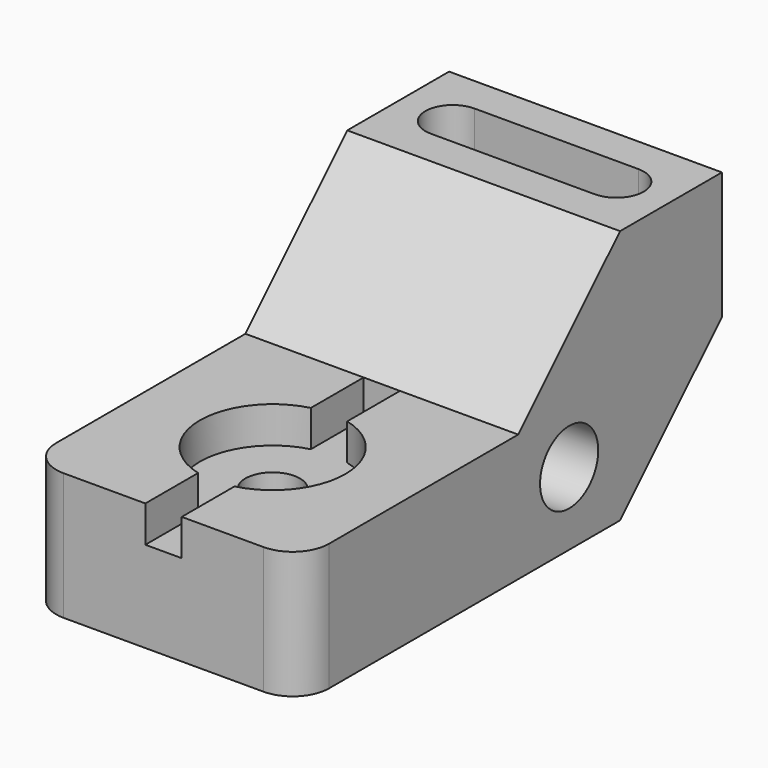
from build123d import *

# Parameters (mm, degrees)
F0_W      = 76.2
F0_H      = 71.12
F1_DEPTH  = 147.32
F3_DEPTH  = 76.201
F4_R      = 10.16
F6_DEPTH  = 27.94
F7_R      = 10.16
F8_DEPTH  = 76.201
F10_DEPTH = 10.16
F11_R     = 7.62
F12_DEPTH = 25.401


with BuildPart() as f1:
    # F0 (on Front) → F1 (new body)
    with BuildSketch(Plane.XZ):
        with Locations((38.1, 35.56)):
            Rectangle(F0_W, F0_H)
    extrude(amount=F1_DEPTH)

    # F2 (on face) → F3 (cut, through all)
    with BuildSketch(Plane.YZ.offset(76.2)):
        Polygon((0, 0), (0, 35.56), (-35.56, 0), align=None)
        Polygon((-71.12, 35.56), (-35.56, 71.12), (-147.32, 71.12), (-147.32, 35.56), align=None)
    extrude(amount=-F3_DEPTH, mode=Mode.SUBTRACT)

    # F4
    f4_edges = [f1.edges().sort_by_distance(p)[0] for p in [
        (76.2, -147.32, 17.78),
        (0, -147.32, 17.78),
    ]]
    fillet(f4_edges, radius=F4_R)

    # F5 (on face) → F6 (cut)
    with BuildSketch(Plane.XY.offset(71.12)):
        with BuildLine():
            Line((60.96, -10.16), (15.24, -10.16))
            ThreePointArc((15.24, -10.16), (7.62, -17.78), (15.24, -25.4))
            Line((15.24, -25.4), (60.96, -25.4))
            ThreePointArc((60.96, -25.4), (68.58, -17.78), (60.96, -10.16))
        make_face()
    extrude(amount=-F6_DEPTH, mode=Mode.SUBTRACT)

    # F7 (on face) → F8 (cut, through all)
    with BuildSketch(Plane.YZ.offset(76.2)):
        with Locations((-53.34, 20.32)):
            Circle(F7_R)
    extrude(amount=-F8_DEPTH, mode=Mode.SUBTRACT)

    # F9 (on face) → F10 (cut)
    with BuildSketch(Plane.XY.offset(35.56)):
        with BuildLine():
            Line((33.02, -71.12), (33.02, -89.5452446013))
            ThreePointArc((33.02, -89.5452446013), (17.78, -109.22), (33.02, -128.8947553987))
            Line((33.02, -128.8947553987), (33.02, -147.32))
            Line((33.02, -147.32), (43.18, -147.32))
            Line((43.18, -147.32), (43.18, -128.8947553987))
            ThreePointArc((43.18, -128.8947553987), (58.42, -109.22), (43.18, -89.5452446013))
            Line((43.18, -89.5452446013), (43.18, -71.12))
            Line((43.18, -71.12), (33.02, -71.12))
        make_face()
    extrude(amount=-F10_DEPTH, mode=Mode.SUBTRACT)

    # F11 (on face) → F12 (cut, through all)
    with BuildSketch(Plane.XY.offset(25.4)):
        with Locations((38.1, -109.22)):
            Circle(F11_R)
    extrude(amount=-F12_DEPTH, mode=Mode.SUBTRACT)


solid = f1.part
